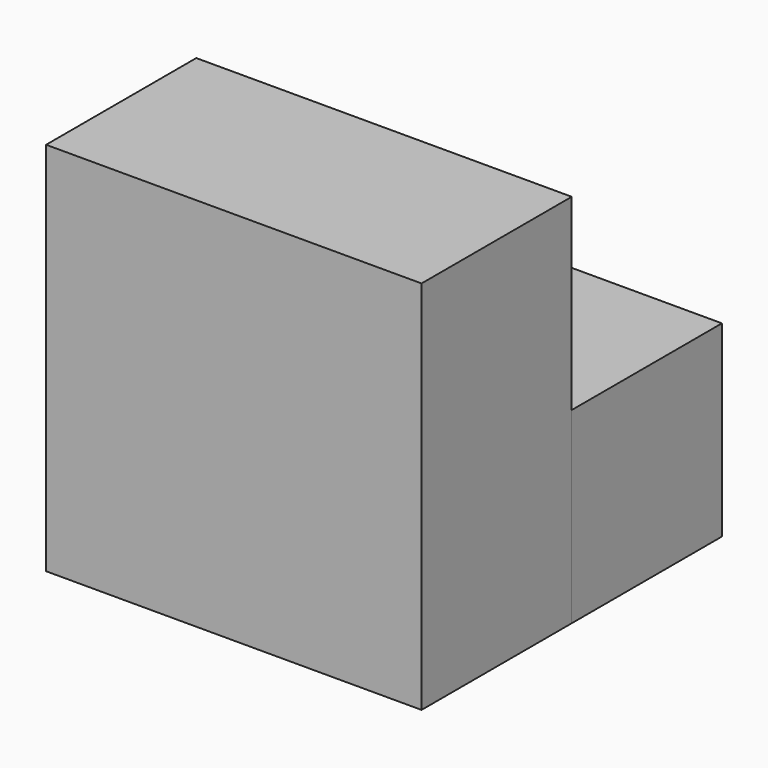
from build123d import *

# Parameters (mm, degrees)
F0_W     = 25.4
F0_H     = 25.4
F1_DEPTH = 25.4
F2_W     = 50.8
F2_H     = 50.8
F3_DEPTH = 25.4


with BuildPart() as f1:
    # F0 (on Front) → F1 (new body)
    with BuildSketch(Plane.XZ):
        with Locations((-12.7, 12.7)):
            Rectangle(F0_W, F0_H)
    extrude(amount=F1_DEPTH)


with BuildPart() as f3:
    # F2 (on face) → F3 (new body)
    with BuildSketch(Plane.XZ.offset(25.4)):
        with Locations((-25.4, 25.4)):
            Rectangle(F2_W, F2_H)
    extrude(amount=F3_DEPTH)


solid = Compound([f1.part, f3.part])
